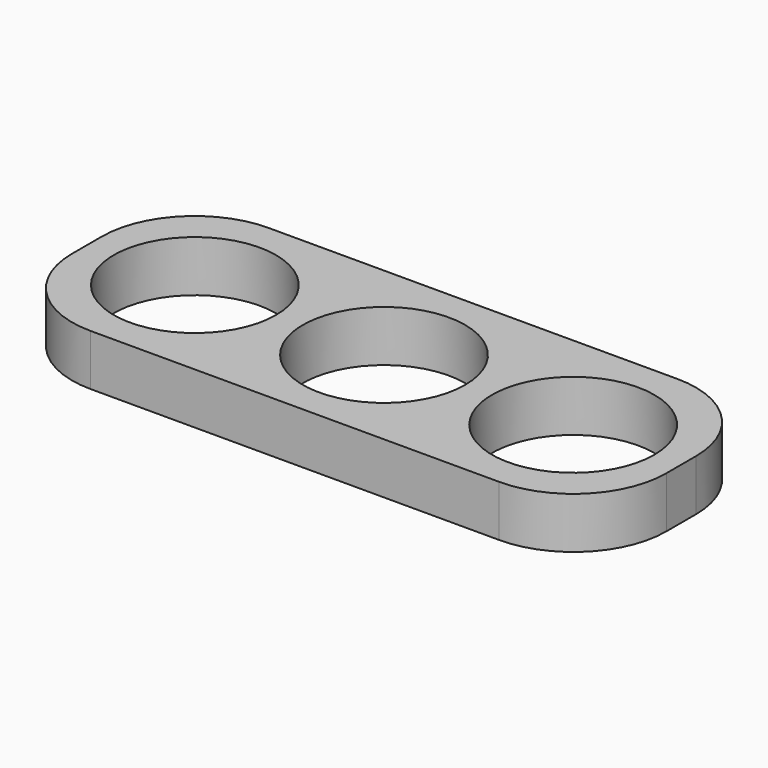
from build123d import *

# Parameters (mm, degrees)
F1_DEPTH = 7
F2_R     = 12.7


with BuildPart() as f1:
    # F0 (on Top) → F1 (new body)
    with BuildSketch(Plane.XY):
        with BuildLine():
            ThreePointArc((-11.1, 0), (0, 11.1), (11.1, 0))
            Line((11.1, 0), (14.77, 0))
            ThreePointArc((14.77, 0), (25.87, 11.1), (36.97, 0))
            Line((36.97, 0), (40.64, 0))
            Line((40.64, 0), (40.64, 15.24))
            Line((40.64, 15.24), (-40.64, 15.24))
            Line((-40.64, 15.24), (-40.64, 0))
            Line((-40.64, 0), (-36.97, 0))
            ThreePointArc((-36.97, 0), (-25.87, 11.1), (-14.77, 0))
            Line((-14.77, 0), (-11.1, 0))
        make_face()
        with BuildLine():
            Line((14.77, 0), (11.1, 0))
            ThreePointArc((11.1, 0), (0, -11.1), (-11.1, 0))
            Line((-11.1, 0), (-14.77, 0))
            ThreePointArc((-14.77, 0), (-25.87, -11.1), (-36.97, 0))
            Line((-36.97, 0), (-40.64, 0))
            Line((-40.64, 0), (-40.64, -15.24))
            Line((-40.64, -15.24), (40.64, -15.24))
            Line((40.64, -15.24), (40.64, 0))
            Line((40.64, 0), (36.97, 0))
            ThreePointArc((36.97, 0), (25.87, -11.1), (14.77, 0))
        make_face()
    extrude(amount=F1_DEPTH)

    # F2
    f2_edges = [f1.edges().sort_by_distance(p)[0] for p in [
        (40.64, 15.24, 3.5),
        (40.64, -15.24, 3.5),
        (-40.64, 15.24, 3.5),
        (-40.64, -15.24, 3.5),
    ]]
    fillet(f2_edges, radius=F2_R)


solid = f1.part
